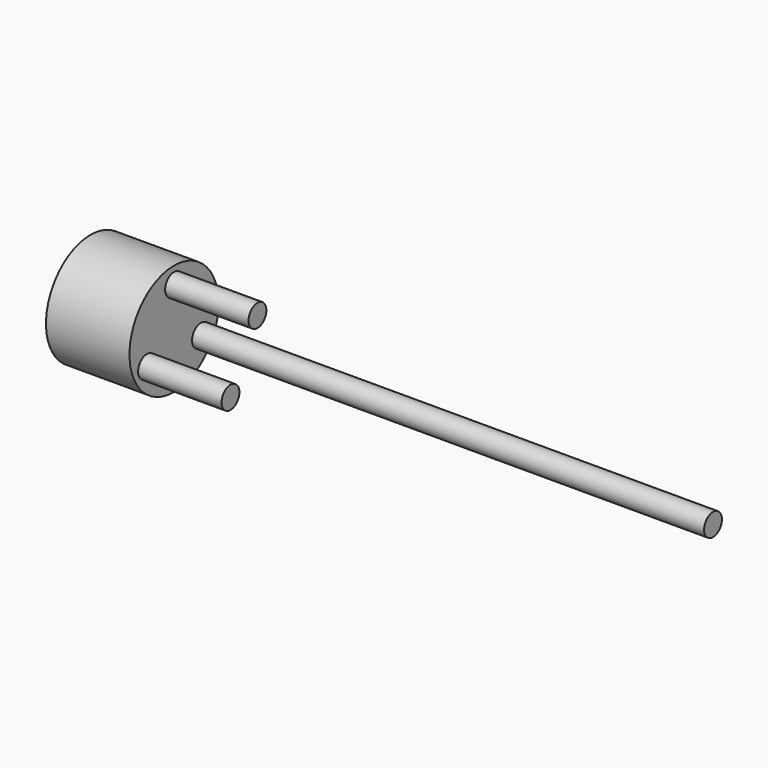
from build123d import *

# Parameters (mm, degrees)
F0_R      = 10
F1_DEPTH  = 15
F2_R      = 2
F3_DEPTH  = 15
F3_FACE_R = 2
F4_DEPTH  = 77


with BuildPart() as f1:
    # F0 (on Right) → F1 (new body)
    with BuildSketch(Plane.YZ):
        Circle(F0_R)
    extrude(amount=F1_DEPTH)

    # F2 (on face) → F3 (join)
    with BuildSketch(Plane.YZ.offset(15)):
        with BuildLine():
            ThreePointArc((2, 7), (-1.414214, 8.414214), (0, 5))
            Line((0, 5), (0, 7))
            Line((0, 7), (2, 7))
        make_face()
        with BuildLine():
            Line((0, 7), (0, 5))
            ThreePointArc((0, 5), (1.414214, 5.585786), (2, 7))
            Line((2, 7), (0, 7))
        make_face()
        with Locations((6.062178, -3.5)):
            Circle(F2_R)
        with Locations((-6.062178, -3.5)):
            Circle(F2_R)
    extrude(amount=F3_DEPTH)

    # F3_face (on face) → F4 (join)
    with BuildSketch(Plane(origin=(30, 6.062178, -3.5), x_dir=(0, 1, 0), z_dir=(1, 0, 0))):
        Circle(F3_FACE_R)
    extrude(amount=F4_DEPTH)


solid = f1.part
